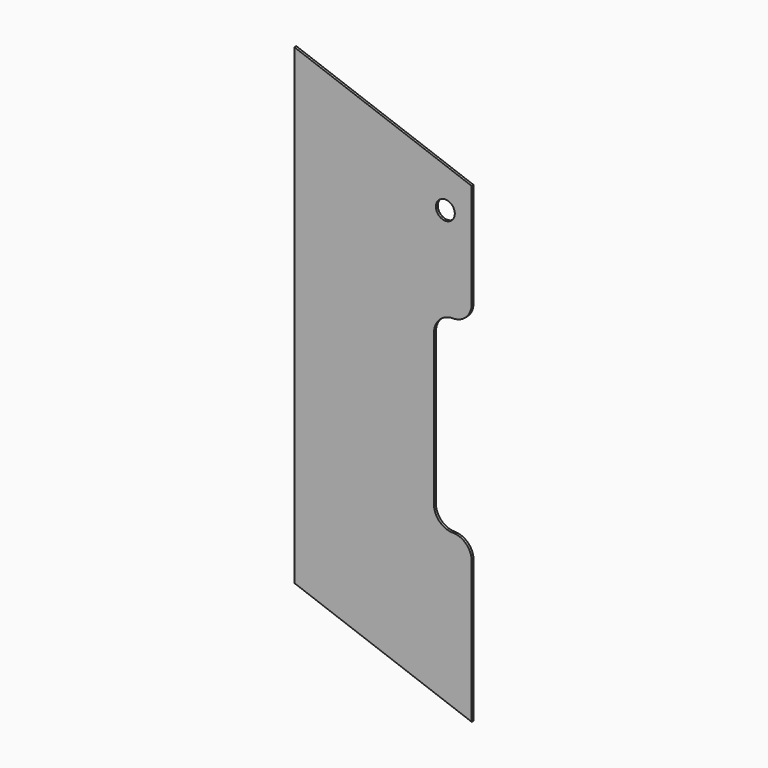
from build123d import *

# Parameters (mm, degrees)
F0_R     = 6.35
F1_DEPTH = 1.5875


with BuildPart() as f1:
    # F0 (on Front) → F1 (new body)
    with BuildSketch(Plane.XZ):
        with BuildLine():
            Line((0, 317.5), (0, 0))
            Line((0, 0), (119.340963, -43.436558))
            Line((119.340963, -43.436558), (119.340963, 51.813442))
            ThreePointArc((119.340963, 51.813442), (115.621219, 60.793698), (106.640963, 64.513442))
            ThreePointArc((106.640963, 64.513442), (97.660707, 68.233186), (93.940963, 77.213442))
            Line((93.940963, 77.213442), (93.940963, 178.813442))
            ThreePointArc((93.940963, 178.813442), (97.660707, 187.793698), (106.640963, 191.513442))
            ThreePointArc((106.640963, 191.513442), (115.621219, 195.233186), (119.340963, 204.213442))
            Line((119.340963, 204.213442), (119.340963, 274.063442))
            Line((119.340963, 274.063442), (0, 317.5))
        make_face()
        with Locations((101.6, 254)):
            Circle(F0_R, mode=Mode.SUBTRACT)
    extrude(amount=F1_DEPTH)


solid = f1.part
